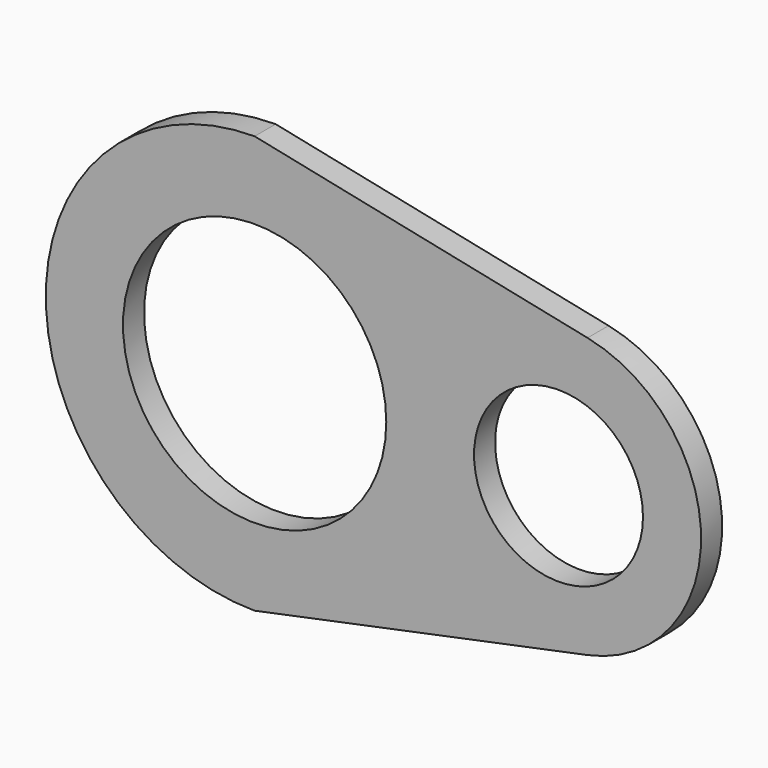
from build123d import *

# Parameters (mm, degrees)
F0_R     = 30
F0_R_2   = 19.25
F1_DEPTH = 6


with BuildPart() as f1:
    # F0 (on Front) → F1 (new body)
    with BuildSketch(Plane.XZ):
        with BuildLine():
            Line((6.614338, 31.820904), (-69.25, 47.590173))
            ThreePointArc((-69.25, 47.590173), (-116.840173, 0), (-69.25, -47.590173))
            Line((-69.25, -47.590173), (6.614338, -31.820904))
            ThreePointArc((6.614338, -31.820904), (32.501068, 0), (6.614338, 31.820904))
        make_face()
        with Locations((-69.25, 0)):
            Circle(F0_R, mode=Mode.SUBTRACT)
        Circle(F0_R_2, mode=Mode.SUBTRACT)
    extrude(amount=-F1_DEPTH)


solid = f1.part
